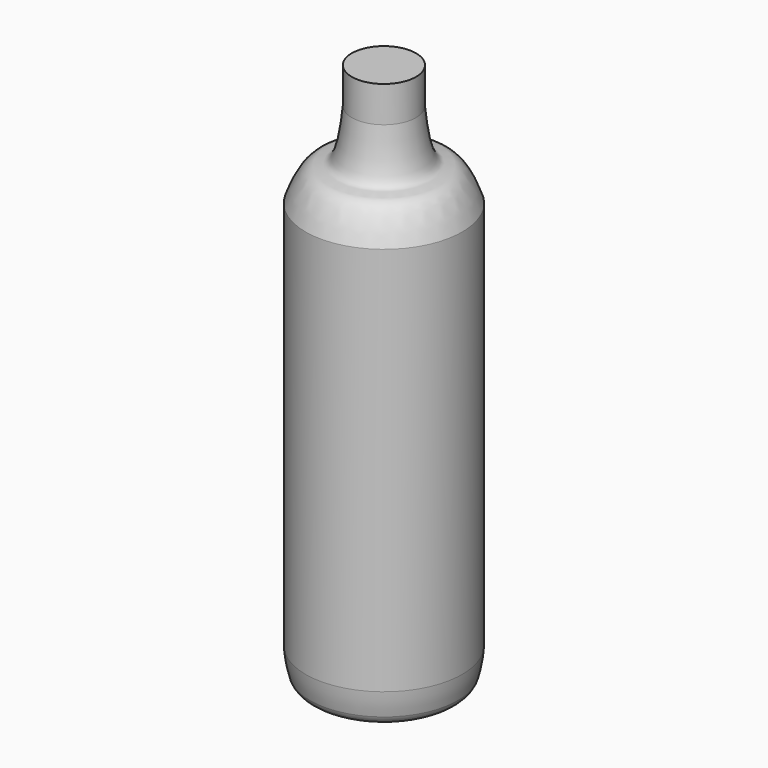
from build123d import *


with BuildPart() as f1:
    # F0 (on Front) → F1 (revolve)
    with BuildSketch(Plane.XZ):
        with BuildLine():
            Line((0, 355.6), (0, 0))
            add(Edge.make_bspline(
                [(-457.2, -846.8180298805), (-310.7934892178, -421.3407039642), (-76.4732514489, -673.5421437826), (-16.8183166454, -182.2497469969), (0, 0)],
                knots=[0, 0, 0, 0, 0.4970614488, 1, 1, 1, 1], degree=3))
            Line((-457.2, -846.8180298805), (-457.2, -4702.3860380284))
            ThreePointArc((-457.2, -4702.3860380284), (-442.2420284929, -4824.1691786226), (-414.3159579917, -4943.6472470326))
            ThreePointArc((-414.3159579917, -4943.6472470326), (-358.3861653398, -5014.9547739473), (-271.8595226581, -5041.9))
            ThreePointArc((-271.8595226581, -5041.9), (-270.7505176166, -5041.8959648588), (-269.6415713018, -5041.8838596658))
            Line((-269.6415713018, -5041.8838596658), (-109.7574505212, -5041.8838596658))
            ThreePointArc((-109.7574505212, -5041.8838596658), (-108.6485042064, -5041.8959648588), (-107.5394991648, -5041.9))
            ThreePointArc((-107.5394991648, -5041.9), (-49.3644813416, -5030.3596018583), (0, -4997.4861860048))
            ThreePointArc((0, -4997.4861860048), (146.3123807797, -4888.7153250262), (317.5, -4826))
            Line((317.5, -4826), (317.5, 355.6))
            Line((317.5, 355.6), (0, 355.6))
        make_face()
    revolve(axis=Axis((317.5, 0, -2235.2), (0, 0, -1)))


solid = f1.part
